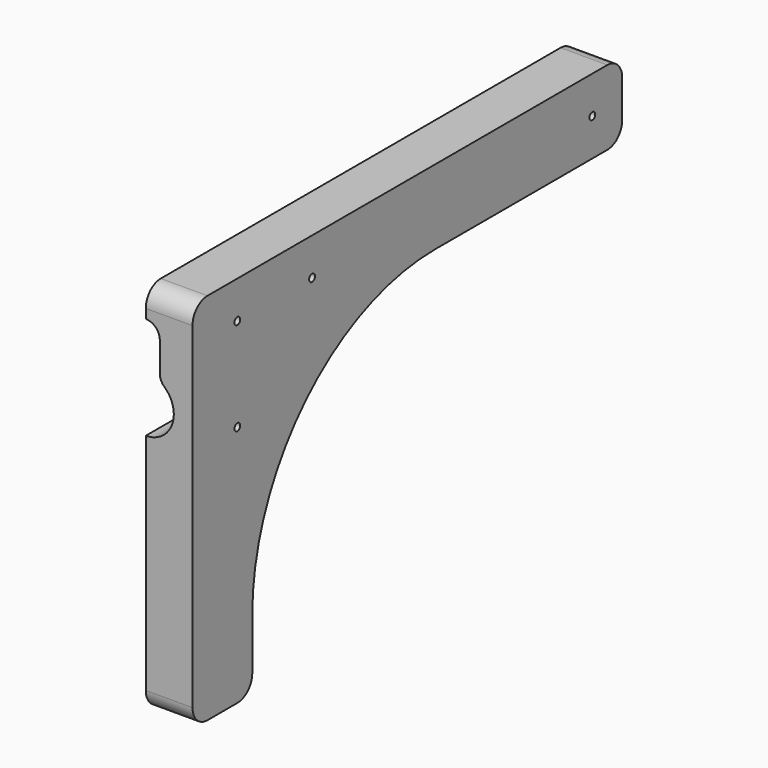
from build123d import *

# Parameters (mm, degrees)
PAD003_DEPTH    = 10
POCKET003_DEPTH = 4
SKETCH008_R     = 0.775
POCKET004_DEPTH = 10.001
FILLET_R        = 4
POCKET005_DEPTH = 8
PAD004_DEPTH    = 4


with BuildPart() as part:
    # Sketch006 → Pad003 (new body)
    with BuildSketch(Plane.YZ):
        with BuildLine():
            Line((-100, 80), (15, 80))
            Line((15, 80), (15, 64))
            Line((15, 64), (-35, 64))
            ThreePointArc((-35, 64), (-69.648232, 49.648232), (-84, 15))
            Line((-84, 15), (-84, 0))
            Line((-84, 0), (-100, 0))
            Line((-100, 0), (-100, 80))
        make_face()
    extrude(amount=PAD003_DEPTH)

    # Sketch007 (on Face8 of Pad003) → Pocket003 (cut)
    with BuildSketch(Plane(origin=(0, 0, 0), x_dir=(0, 1, 0), z_dir=(-1, 0, 0))):
        with BuildLine():
            Line((-88, 0), (-88, -15))
            ThreePointArc((-88, -15), (-72.476659, -52.476659), (-35, -68))
            Line((-35, -68), (-8, -68))
            ThreePointArc((-8, -68), (-5.171573, -66.828427), (-4, -64))
            Line((-4, -64), (4, -64))
            ThreePointArc((-8, -76), (0.485281, -72.485281), (4, -64))
            Line((-8, -76), (-35, -76))
            ThreePointArc((-96, -15), (-78.133514, -58.133514), (-35, -76))
            Line((-96, -15), (-96, 0))
            Line((-96, 0), (-88, 0))
        make_face()
    extrude(amount=-POCKET003_DEPTH, mode=Mode.SUBTRACT)

    # Sketch008 (on Face4 of Pocket003) → Pocket004 (cut, through all)
    with BuildSketch(Plane(origin=(0, 0, 0), x_dir=(0, 1, 0), z_dir=(-1, 0, 0))):
        with Locations((-88, -52)):
            Circle(SKETCH008_R)
        with Locations((-68, -72)):
            Circle(SKETCH008_R)
        with Locations((-88, -72)):
            Circle(SKETCH008_R)
        with Locations((7, -72)):
            Circle(SKETCH008_R)
    extrude(amount=-POCKET004_DEPTH, mode=Mode.SUBTRACT)

    # Fillet
    fillet_edges = [part.edges().sort_by_distance(p)[0] for p in [
        (5, 15, 64),
        (5, 15, 80),
        (5, -100, 80),
        (5, -100, 0),
        (5, -84, 0),
    ]]
    fillet(fillet_edges, radius=FILLET_R)

    # Sketch009 (on Face6 of Fillet) → Pocket005 (cut)
    with BuildSketch(Plane(origin=(0, -100, 0), x_dir=(0, 0, -1), z_dir=(0, -1, 0))):
        with BuildLine():
            ThreePointArc((-68, 6), (-74, 0), (-68, -6))
            Line((-68, -6), (-58, -6))
            ThreePointArc((-58, -6), (-52, 0), (-58, 6))
            Line((-68, 6), (-58, 6))
        make_face()
    extrude(amount=-POCKET005_DEPTH, mode=Mode.SUBTRACT)

    # Sketch010 (on Face14 of Pocket005) → Pad004 (join)
    with BuildSketch(Plane(origin=(0, -100, 0), x_dir=(0, 0, -1), z_dir=(0, -1, 0))):
        with BuildLine():
            ThreePointArc((-71, 3), (-73.12132, 2.12132), (-74, 0))
            ThreePointArc((-68, 6), (-72.242641, 4.242641), (-74, 0))
            Line((-58, 6), (-68, 6))
            ThreePointArc((-58, 6), (-60.44949, 5.477226), (-62.472136, 4))
            ThreePointArc((-64.708204, 3), (-63.483459, 3.261387), (-62.472136, 4))
            Line((-71, 3), (-64.708204, 3))
        make_face()
    extrude(amount=-PAD004_DEPTH)


solid = part.part
